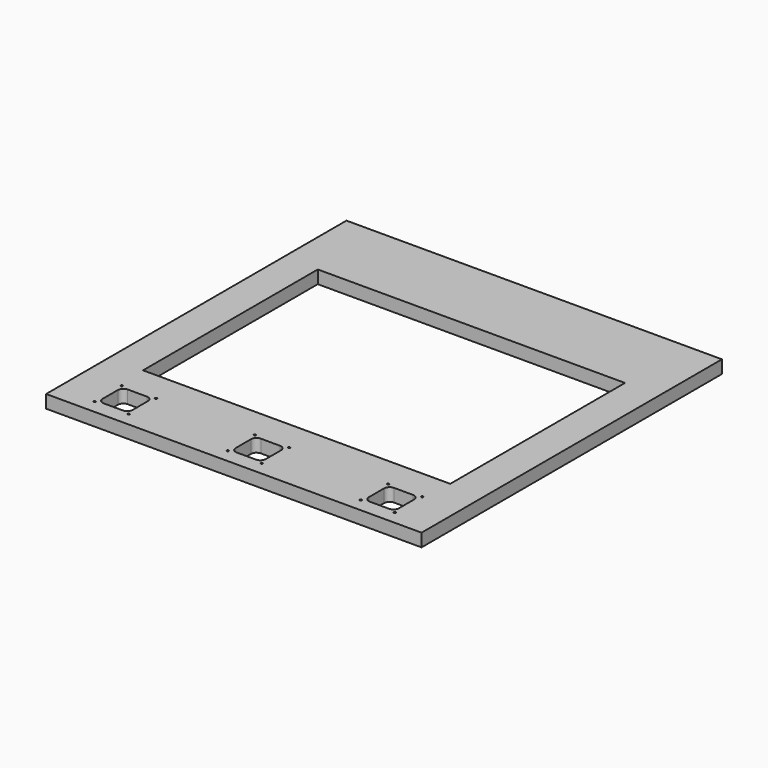
from build123d import *

# Parameters (mm, degrees)
F0_W     = 550
F0_H     = 550
F1_DEPTH = 19
F2_W     = 450
F2_H     = 320
F3_DEPTH = 25
F5_D     = 3
F4_W     = 44
F4_H     = 44
F4_W_2   = 22
F6_DEPTH = 25
F7_R     = 8


with BuildPart() as f1:
    # F0 (on Top) → F1 (new body)
    with BuildSketch(Plane.XY):
        Rectangle(F0_W, F0_H)
    extrude(amount=F1_DEPTH)

    # F2 (on face) → F3 (cut)
    with BuildSketch(Plane.XY.offset(19)):
        Rectangle(F2_W, F2_H)
    extrude(amount=-F3_DEPTH, mode=Mode.SUBTRACT)

    # F5 (through all)
    with Locations(Plane.XY.offset(19)):
        with Locations((220, -255), (220, -205), (170, -205), (170, -255), (-220, -205), (-220, -255), (-170, -255), (-25, -205), (-25, -255), (25, -255), (25, -205), (-170, -205)):
            Hole(F5_D / 2)

    # F4 (on face) → F6 (cut)
    with BuildSketch(Plane.XY.offset(19)):
        with Locations((195, -230)):
            Rectangle(F4_W, F4_H)
        with Locations((-195, -230)):
            Rectangle(F4_W, F4_H)
        with Locations((11, -230)):
            Rectangle(F4_W_2, F4_H)
        with Locations((-11, -230)):
            Rectangle(F4_W_2, F4_H)
    extrude(amount=-F6_DEPTH, mode=Mode.SUBTRACT)

    # F7
    f7_edges = [f1.edges().sort_by_distance(p)[0] for p in [
        (173, -208, 9.5),
        (217, -208, 9.5),
        (173, -252, 9.5),
        (217, -252, 9.5),
        (-217, -252, 9.5),
        (-217, -208, 9.5),
        (-173, -208, 9.5),
        (-173, -252, 9.5),
        (-22, -252, 9.5),
        (22, -252, 9.5),
        (22, -208, 9.5),
        (-22, -208, 9.5),
    ]]
    fillet(f7_edges, radius=F7_R)


solid = f1.part
